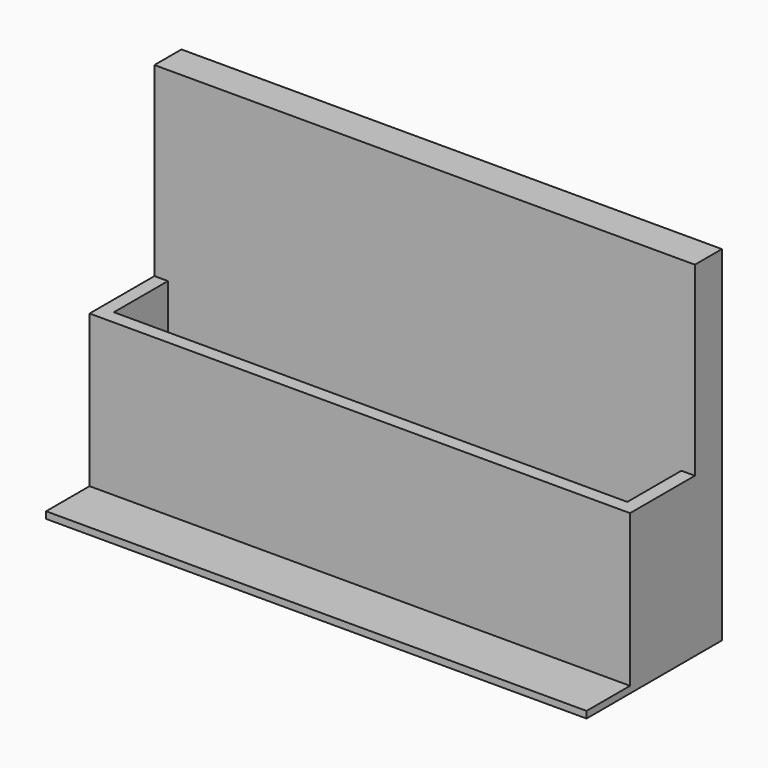
from build123d import *

# Parameters (mm, degrees)
F0_W     = 101.6
F0_H     = 63.5
F1_DEPTH = 6.35
F2_W     = 101.6
F2_H     = 7.62
F3_DEPTH = 15.24
F5_DEPTH = 20.955
F6_W     = 101.6
F6_H     = 31.809177
F7_DEPTH = 1.27
F8_DEPTH = 1.27


with BuildPart() as f1:
    # F0 (on Front) → F1 (new body)
    with BuildSketch(Plane.XZ):
        with Locations((-21.056601, -45.411576)):
            Rectangle(F0_W, F0_H)
    extrude(amount=F1_DEPTH)

    # F2 (on face) → F3 (join)
    with BuildSketch(Plane.XZ.offset(6.35)):
        with Locations((-21.056601, -73.351576)):
            Rectangle(F2_W, F2_H)
    extrude(amount=F3_DEPTH)

    # F4 (on face) → F5 (join)
    with BuildSketch(Plane.XY.offset(-69.541576)):
        Polygon((-71.856601, -19.05), (-71.856601, -21.59), (-69.316601, -21.59), (27.203399, -21.59), (29.743399, -21.59), (29.743399, -19.05), (29.743399, -6.35), (27.203399, -6.35), (27.203399, -19.05), (-69.316601, -19.05), (-69.316601, -6.35), (-71.856601, -6.35), align=None)
    extrude(amount=F5_DEPTH)

    # F6 (on face) → F7 (join)
    with BuildSketch(Plane(origin=(0, 0, -77.161576), x_dir=(1, 0, 0), z_dir=(0, 0, -1))):
        with Locations((-21.056601, 15.904588)):
            Rectangle(F6_W, F6_H)
    extrude(amount=F7_DEPTH)

    # F6 (on face) → F8 (join)
    with BuildSketch(Plane(origin=(0, 0, -77.161576), x_dir=(1, 0, 0), z_dir=(0, 0, -1))):
        with Locations((-21.056601, 15.904588)):
            Rectangle(F6_W, F6_H)
    extrude(amount=F8_DEPTH)


solid = f1.part
